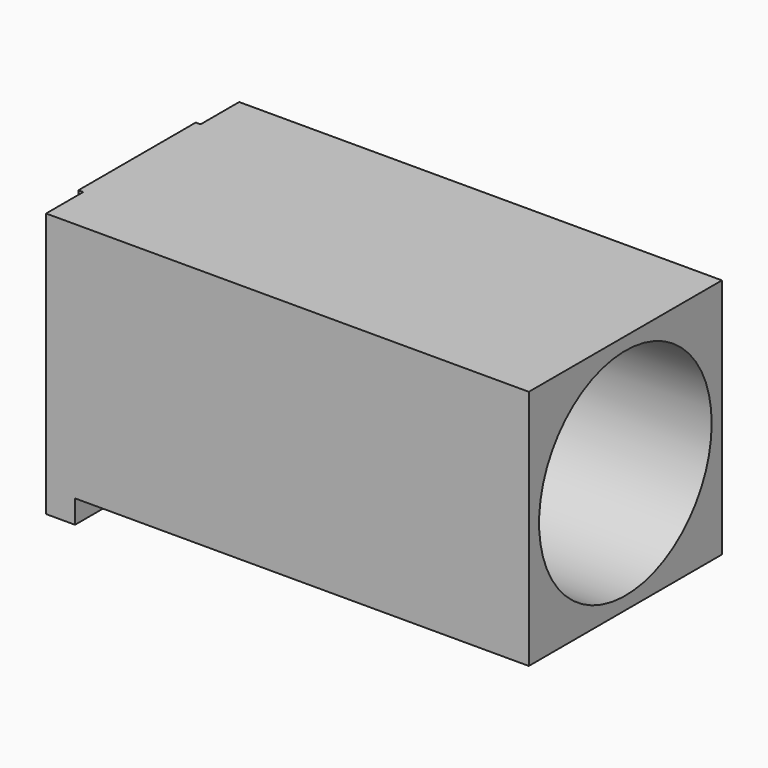
from build123d import *

# Parameters (mm, degrees)
F0_R     = 11.171963
F0_R_2   = 3.25
F1_DEPTH = 3
F0_W     = 25
F0_H     = 25
F2_DEPTH = 50
F3_DEPTH = 3
F4_W     = 15.2
F4_H     = 27.411
F4_R     = 3.25
F5_DEPTH = 0.5


with BuildPart() as f1:
    # F0 (on Right) → F1 (new body)
    with BuildSketch(Plane.YZ):
        Circle(F0_R)
        Circle(F0_R_2, mode=Mode.SUBTRACT)
    extrude(amount=F1_DEPTH)

    # F0 (on Right) → F2 (join)
    with BuildSketch(Plane.YZ):
        Rectangle(F0_W, F0_H)
        Circle(F0_R, mode=Mode.SUBTRACT)
    extrude(amount=F2_DEPTH)

    # F0 (on Right) → F3 (join)
    with BuildSketch(Plane.YZ):
        Polygon((12.52148, -14.911), (12.5, -12.5), (-12.5, -12.5), (-12.5, -14.911), align=None)
    extrude(amount=F3_DEPTH)

    # F4 (on face) → F5 (join)
    with BuildSketch(Plane(origin=(0, 0, 0), x_dir=(0, -1, 0), z_dir=(-1, 0, 0))):
        with Locations((0.1, -1.2055)):
            Rectangle(F4_W, F4_H)
        Circle(F4_R, mode=Mode.SUBTRACT)
    extrude(amount=F5_DEPTH)


solid = f1.part
